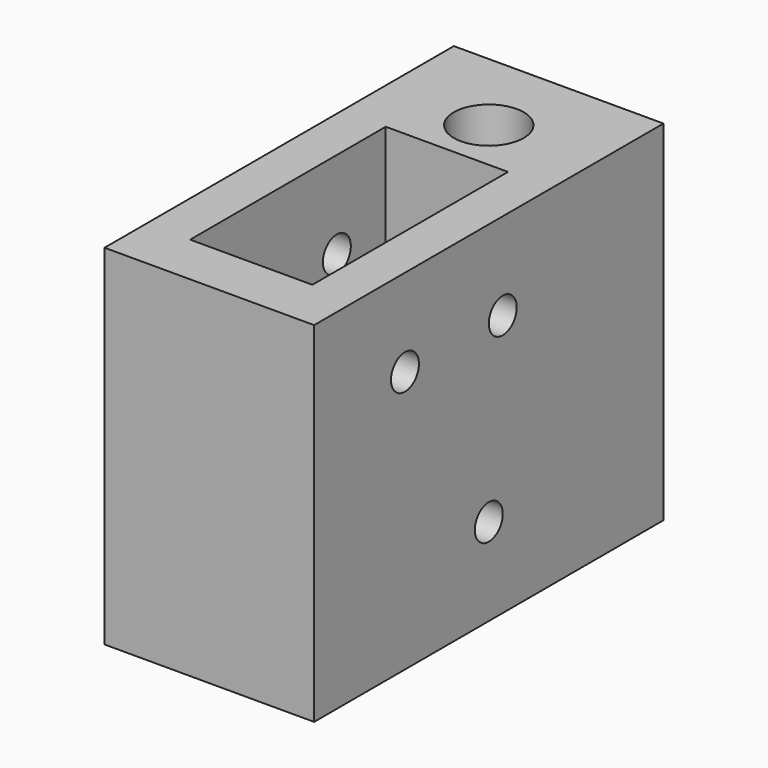
from build123d import *

# Parameters (mm, degrees)
F0_W     = 12
F0_H     = 25
F0_W_2   = 7
F0_H_2   = 14
F0_R     = 2
F1_DEPTH = 20
F2_R     = 1
F3_DEPTH = 12.001


with BuildPart() as f1:
    # F0 (on Top) → F1 (new body)
    with BuildSketch(Plane.XY):
        with Locations((0, -7.5)):
            Rectangle(F0_W, F0_H)
        with Locations((0, -10)):
            Rectangle(F0_W_2, F0_H_2, mode=Mode.SUBTRACT)
        Circle(F0_R, mode=Mode.SUBTRACT)
    extrude(amount=F1_DEPTH)

    # F2 (on face) → F3 (cut, through all)
    with BuildSketch(Plane(origin=(-6, 0, 0), x_dir=(0, -1, 0), z_dir=(-1, 0, 0))):
        with Locations((13.5, 15)):
            Circle(F2_R)
        with Locations((6.5, 15)):
            Circle(F2_R)
        with Locations((7.5, 5)):
            Circle(F2_R)
    extrude(amount=-F3_DEPTH, mode=Mode.SUBTRACT)


solid = f1.part
